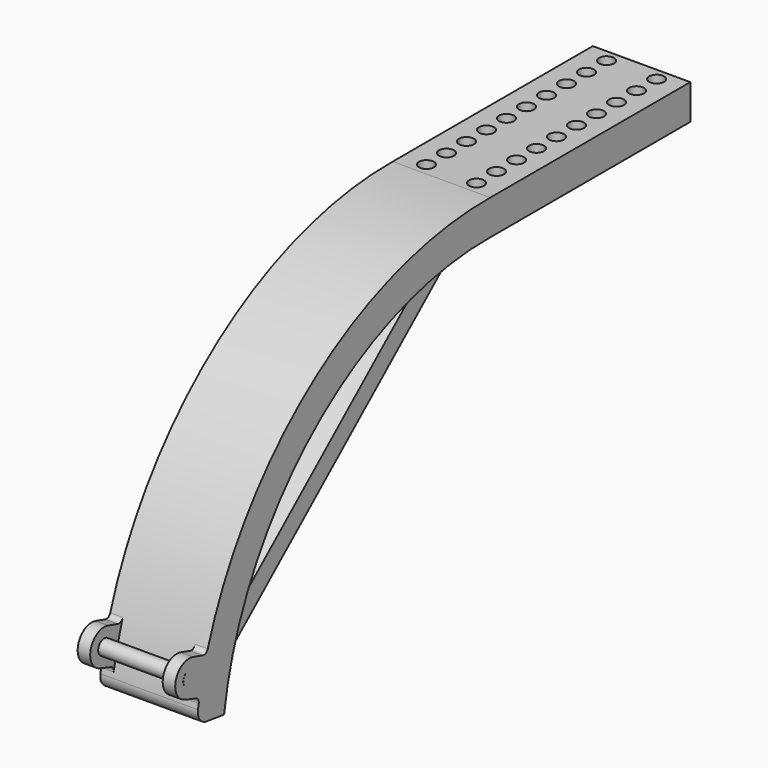
from build123d import *

# Parameters (mm, degrees)
F0_W          = 49.53
F0_H          = 17.78
F3_DEPTH      = 127
F5_DEPTH      = 12.7
F5_DEPTH_BACK = 12.7
F6_R          = 3.81
F7_DEPTH      = 24.765
F7_DEPTH_BACK = 24.765
F8_R          = 6.35
F9_R          = 3.81
F10_DEPTH     = 6.35
F12_R         = 3.81
F13_DEPTH     = 25.4


with BuildPart() as f2:
    # F2: sweep along a path in F1
    with BuildLine(Plane.YZ) as f2_path:
        ThreePointArc((0, 0), (-117.5329964843, -42.794837435), (-177.8, -152.4))
    # F0 (on Front) → F2 (sweep)
    with BuildSketch(Plane.XZ):
        Rectangle(F0_W, F0_H)
    sweep(path=f2_path.line)

    # F0 (on Front) → F3 (join)
    with BuildSketch(Plane.XZ):
        Rectangle(F0_W, F0_H)
    extrude(amount=-F3_DEPTH)

    # F4 (on Right) → F5 (join, two sides)
    with BuildSketch(Plane.YZ) as f5_sk:
        Polygon((-169.126565554, -153.0713479475), (0, -7.7078141163), (-6.6193065428, 0), (-175.749050011, -145.3662652344), align=None)
    extrude(amount=F5_DEPTH)
    extrude(f5_sk.sketch, amount=-F5_DEPTH_BACK)

    # F8
    f8_edges = [f2.edges().sort_by_distance(p)[0] for p in [
        (0, -186.611435, -151.220714),
    ]]
    fillet(f8_edges, radius=F8_R)



with BuildPart() as f7:
    # F6 (on Right) → F7 (new body, two sides)
    with BuildSketch(Plane.YZ) as f7_sk:
        with Locations((-191.0524220981, -128.3607142857)):
            Circle(F6_R)
    extrude(amount=F7_DEPTH)
    extrude(f7_sk.sketch, amount=-F7_DEPTH_BACK)


with BuildPart() as f2_1:
    add(f2.part)

    add(f7.part)  # F10 merges F7
    # F9 (on face) → F10 (join)
    with BuildSketch(Plane(origin=(-24.765, 0, 0), x_dir=(0, -1, 0), z_dir=(-1, 0, 0))):
        with BuildLine():
            Line((186.7554907347, -139.1305014455), (193.8819702362, -136.7905924285))
            ThreePointArc((193.8819702362, -136.7905924285), (199.5987163414, -125.7076478809), (188.6094911041, -119.8127539412))
            Line((188.6094911041, -119.8127539412), (182.4592318073, -121.6144030093))
            ThreePointArc((182.4592318073, -121.6144030093), (180.5599939589, -121.4233791934), (179.3300967362, -119.9636027295))
            ThreePointArc((179.3300967362, -119.9636027295), (182.5296358067, -130.9094781954), (185.0548897469, -142.0302844844))
            ThreePointArc((185.0548897469, -142.0302844844), (185.3568434553, -140.2588106009), (186.7554907347, -139.1305014455))
        make_face()
        with Locations((191.10869103, -128.344230937)):
            Circle(F9_R, mode=Mode.SUBTRACT)
    extrude(amount=-F10_DEPTH)

    # F11: F2 across plane


with BuildPart() as f2_2:
    add(f2_1.part)
    add(f2_1.part.mirror(Plane.YZ))

    # F12 (on face) → F13 (cut)
    with BuildSketch(Plane.XY.offset(8.89)):
        with Locations((-12.7, 6.35)):
            Circle(F12_R)
        with Locations((-12.7, 19.05)):
            Circle(F12_R)
        with Locations((-12.7, 31.75)):
            Circle(F12_R)
        with Locations((-12.7, 44.45)):
            Circle(F12_R)
        with Locations((-12.7, 57.15)):
            Circle(F12_R)
        with Locations((-12.7, 69.85)):
            Circle(F12_R)
        with Locations((-12.7, 82.55)):
            Circle(F12_R)
        with Locations((-12.7, 95.25)):
            Circle(F12_R)
        with Locations((-12.7, 107.95)):
            Circle(F12_R)
        with Locations((-12.7, 120.65)):
            Circle(F12_R)
        with Locations((12.7, 6.35)):
            Circle(F12_R)
        with Locations((12.7, 19.05)):
            Circle(F12_R)
        with Locations((12.7, 31.75)):
            Circle(F12_R)
        with Locations((12.7, 44.45)):
            Circle(F12_R)
        with Locations((12.7, 57.15)):
            Circle(F12_R)
        with Locations((12.7, 69.85)):
            Circle(F12_R)
        with Locations((12.7, 82.55)):
            Circle(F12_R)
        with Locations((12.7, 95.25)):
            Circle(F12_R)
        with Locations((12.7, 107.95)):
            Circle(F12_R)
        with Locations((12.7, 120.65)):
            Circle(F12_R)
    extrude(amount=-F13_DEPTH, mode=Mode.SUBTRACT)


solid = f2_2.part
